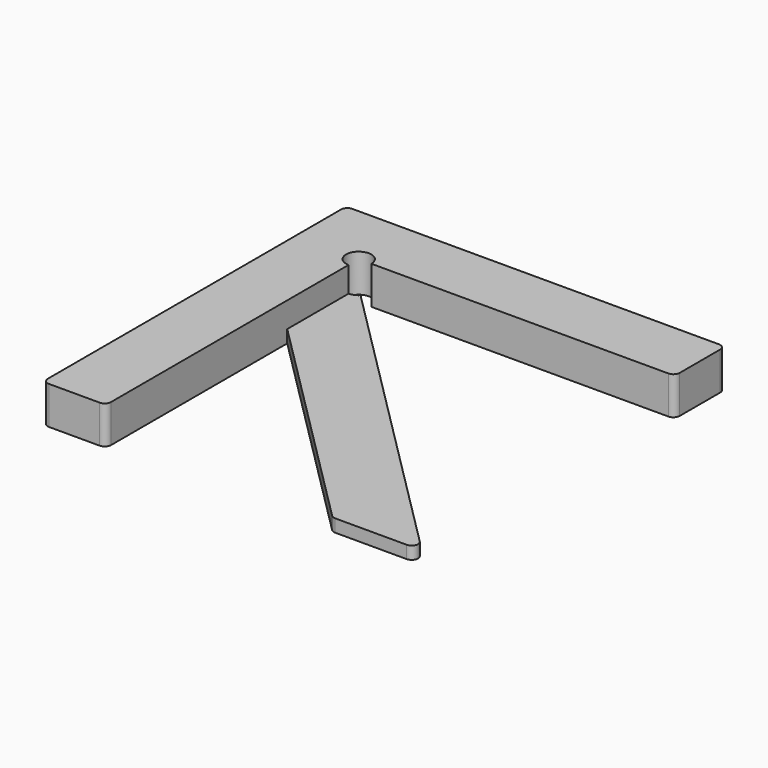
from build123d import *

# Parameters (mm, degrees)
F1_DEPTH = 2
F2_DEPTH = 6
F3_R     = 1


with BuildPart() as f1:
    # F0 (on Top) → F1 (new body)
    with BuildSketch(Plane.XY):
        with BuildLine():
            ThreePointArc((0, -2), (-1.414214, 1.414214), (2, 0))
            Line((2, 0), (50, 0))
            Line((50, 0), (50, 10))
            Line((50, 10), (-10, 10))
            Line((-10, 10), (-10, -50))
            Line((-10, -50), (0, -50))
            Line((0, -50), (0, -14.142136))
            Line((0, -14.142136), (0, -2))
        make_face()
        with BuildLine():
            ThreePointArc((1.414214, -1.414214), (0.765367, -1.847759), (0, -2))
            Line((0, -2), (0, -14.142136))
            Line((0, -14.142136), (35.857864, -50))
            Line((35.857864, -50), (50, -50))
            Line((50, -50), (1.414214, -1.414214))
        make_face()
    extrude(amount=F1_DEPTH)

    # F0 (on Top) → F2 (join)
    with BuildSketch(Plane.XY):
        with BuildLine():
            ThreePointArc((0, -2), (-1.414214, 1.414214), (2, 0))
            Line((2, 0), (50, 0))
            Line((50, 0), (50, 10))
            Line((50, 10), (-10, 10))
            Line((-10, 10), (-10, -50))
            Line((-10, -50), (0, -50))
            Line((0, -50), (0, -14.142136))
            Line((0, -14.142136), (0, -2))
        make_face()
    extrude(amount=F2_DEPTH)

    # F3
    f3_edges = [f1.edges().sort_by_distance(p)[0] for p in [
        (-10, -50, 3),
        (0, -50, 3),
        (35.857864, -50, 1),
        (50, 0, 3),
        (50, 10, 3),
        (-10, 10, 3),
        (50, -50, 1),
    ]]
    fillet(f3_edges, radius=F3_R)


with BuildPart() as f1_1:
    # F4: moved
    add(f1.part.moved(Location((-10.68996, 11.8976, 0))))


solid = f1_1.part
